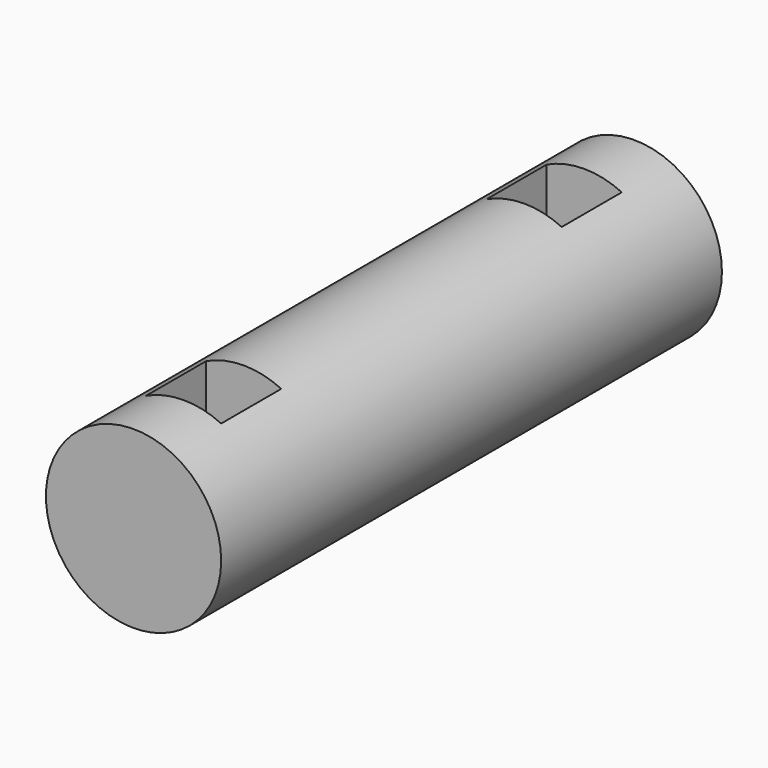
from build123d import *

# Parameters (mm, degrees)
BOX014_W          = 3
BOX014_H          = 3
BOX014_DEPTH      = 8
BOX013_W          = 3
BOX013_H          = 3
BOX013_DEPTH      = 8
CYLINDER009_R     = 3.5
CYLINDER009_DEPTH = 25


with BuildPart() as pivotrodbodypinhole4:
    # Box014 → Box014 (new body)
    with BuildSketch(Plane(origin=(18, 62, 10), x_dir=(1, 0, 0), z_dir=(0, 0, 1))):
        with Locations((1.5, 1.5)):
            Rectangle(BOX014_W, BOX014_H)
    extrude(amount=BOX014_DEPTH)


with BuildPart() as pivotrodpinholesright:
    # Box013 → Box013 (new body)
    with BuildSketch(Plane(origin=(18, 79, 10), x_dir=(1, 0, 0), z_dir=(0, 0, 1))):
        with Locations((1.5, 1.5)):
            Rectangle(BOX013_W, BOX013_H)
    extrude(amount=BOX013_DEPTH)

    # Fusion009: union PivotRodBodyPinhole4
    add(pivotrodbodypinhole4.part)


with BuildPart() as pivotrodright:
    # Cylinder009 → Cylinder009 (new body)
    with BuildSketch(Plane(origin=(19.5, 84.5, 14), x_dir=(1, 0, 0), z_dir=(0, -1, 0))):
        Circle(CYLINDER009_R)
    extrude(amount=CYLINDER009_DEPTH)

    # Cut007: cut PivotRodPinholesRight
    add(pivotrodpinholesright.part, mode=Mode.SUBTRACT)


solid = pivotrodright.part
